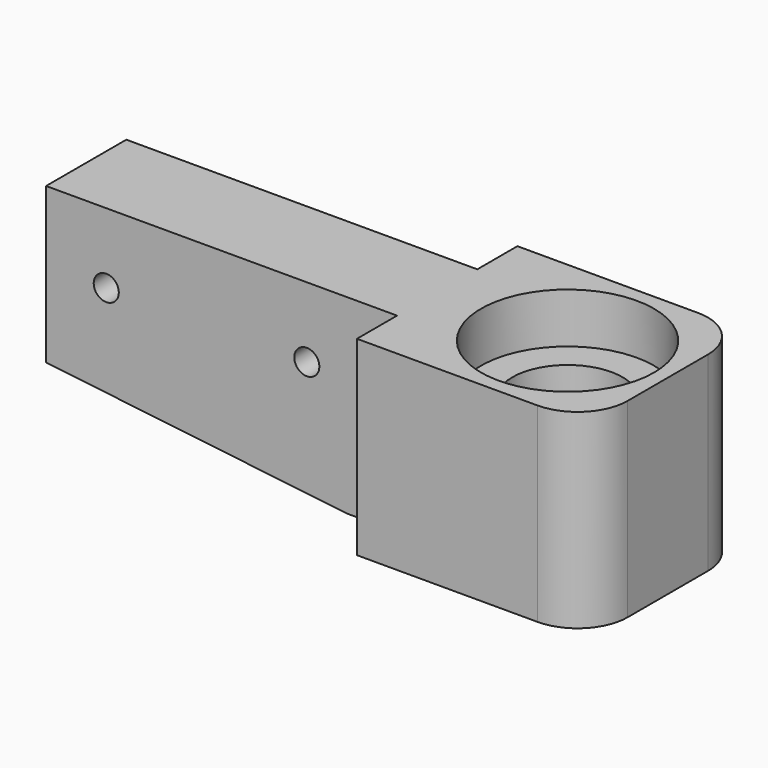
from build123d import *

# Parameters (mm, degrees)
F1_DEPTH       = 20
F3_D           = 11
F3_CBORE_D     = 17.25
F3_CBORE_DEPTH = 5
F4_R           = 8.25
F5_DEPTH       = 11
F7_DEPTH       = 5
F9_DEPTH       = 5
F11_D          = 2.5
F12_R          = 5


with BuildPart() as f1:
    # F0 (on Front) → F1 (new body)
    with BuildSketch(Plane.XZ):
        Polygon((58, 0), (0, 0), (0, -15.5), (30, -19), (58, -19), align=None)
    extrude(amount=F1_DEPTH)

    # F3 (through all)
    with Locations(Plane.XY):
        with Locations((48, -10)):
            CounterBoreHole(F3_D / 2, F3_CBORE_D / 2, F3_CBORE_DEPTH)

    # F4 (on face) → F5 (cut)
    with BuildSketch(Plane(origin=(0, 0, -19), x_dir=(1, 0, 0), z_dir=(0, 0, -1))):
        with Locations((48, 10)):
            Circle(F4_R)
    extrude(amount=-F5_DEPTH, mode=Mode.SUBTRACT)

    # F6 (on face) → F7 (cut)
    with BuildSketch(Plane.XZ.offset(20)):
        Polygon((35, -19), (35, 0), (0, 0), (0, -15.5), (30, -19), align=None)
    extrude(amount=-F7_DEPTH, mode=Mode.SUBTRACT)

    # F8 (on face) → F9 (cut)
    with BuildSketch(Plane(origin=(0, 0, 0), x_dir=(-1, 0, 0), z_dir=(0, 1, 0))):
        Polygon((0, 0), (-35, 0), (-35, -19), (-30, -19), (0, -15.5), align=None)
    extrude(amount=-F9_DEPTH, mode=Mode.SUBTRACT)

    # F11 (through all)
    with Locations(Plane.XZ.offset(15)):
        with Locations((6, -7), (26, -7)):
            Hole(F11_D / 2)

    # F12
    f12_edges = [f1.edges().sort_by_distance(p)[0] for p in [
        (58, -20, -9.5),
        (58, 0, -9.5),
    ]]
    fillet(f12_edges, radius=F12_R)


solid = f1.part
